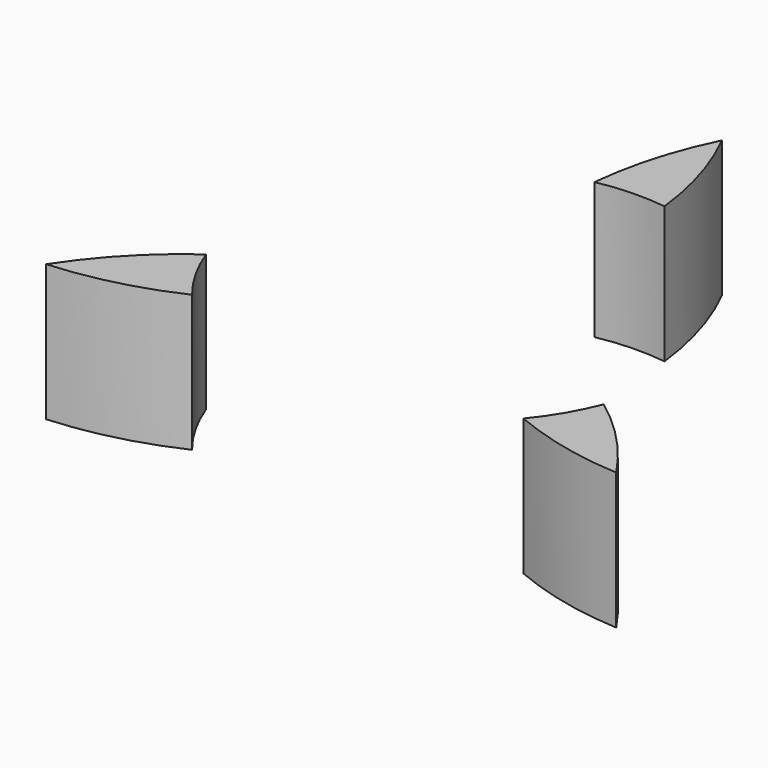
from build123d import *

# Parameters (mm, degrees)
F1_DEPTH = 7


with BuildPart() as f1:
    # F0 (on Top) → F1 (new body)
    with BuildSketch(Plane.XY):
        with BuildLine():
            ThreePointArc((-2.0874247971, 10.8001230417), (-0.3412729495, 10.9947047607), (1.4135853304, 10.9087935407))
            ThreePointArc((1.4135853304, 10.9087935407), (0.7879532463, 13.9378746158), (-0.3632838289, 16.8086586307))
            ThreePointArc((-0.3632838289, 16.8086586307), (-1.4969434902, 13.8823229746), (-2.0874247971, 10.8001230417))
        make_face()
    extrude(amount=F1_DEPTH)


with BuildPart() as f1b:
    # F0 (on Top) → F1, piece 2 (new body)
    with BuildSketch(Plane.XY):
        with BuildLine():
            ThreePointArc((-8.5677589565, -6.8988047126), (-9.5685930185, -5.4260508333), (-10.3186925541, -3.8111132198))
            ThreePointArc((-10.3186925541, -3.8111132198), (-12.7716309008, -5.936880497), (-14.787835926, -8.4806395945))
            ThreePointArc((-14.787835926, -8.4806395945), (-11.6043540641, -7.9785155441), (-8.5677589565, -6.8988047126))
        make_face()
    extrude(amount=F1_DEPTH)


with BuildPart() as f1c:
    # F0 (on Top) → F1, piece 3 (new body)
    with BuildSketch(Plane.XY):
        with BuildLine():
            ThreePointArc((14.3256148295, -8.3280190362), (12.4677367088, -5.9976199722), (10.2399674985, -4.0178434052))
            ThreePointArc((10.2399674985, -4.0178434052), (9.484460261, -5.5718052333), (8.4949307428, -6.9882867482))
            ThreePointArc((8.4949307428, -6.9882867482), (11.3523562473, -7.9102129823), (14.3256148295, -8.3280190362))
        make_face()
    extrude(amount=F1_DEPTH)


solid = Compound([f1.part, f1b.part, f1c.part])
